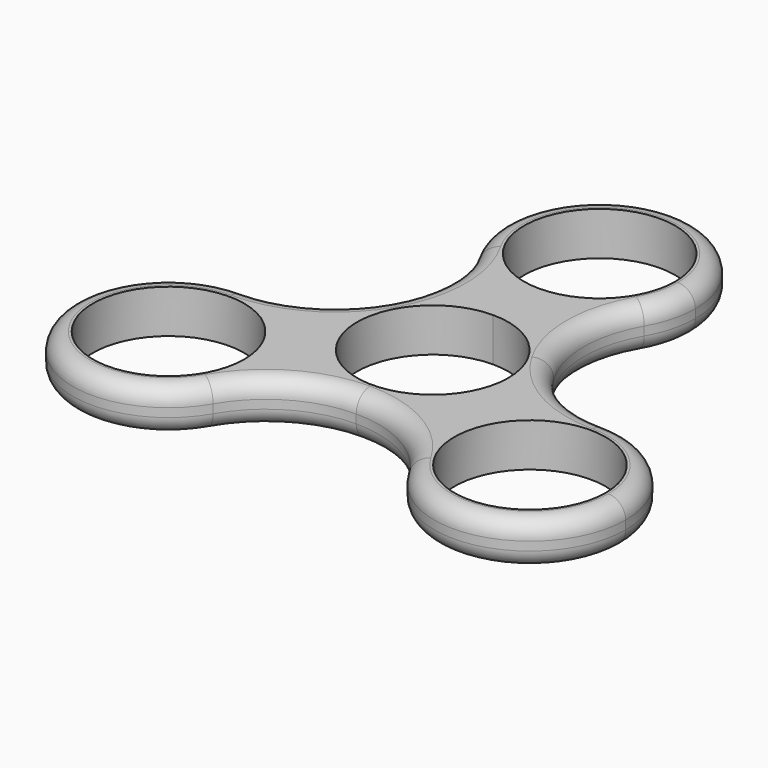
from build123d import *

# Parameters (mm, degrees)
F0_R     = 11.049
F1_DEPTH = 6.35
F2_R     = 2.54


with BuildPart() as f1:
    # F0 (on Top) → F1 (new body)
    with BuildSketch(Plane.XY):
        with BuildLine():
            ThreePointArc((0, 11.049), (7.8128228253, 7.8128228253), (11.049, 0))
            ThreePointArc((11.049, 0), (-2.8596916293, -10.6725144547), (-9.5687146864, 5.5245))
            Line((-9.5687146864, 5.5245), (-12.0983748909, 6.985))
            ThreePointArc((-12.098374853, 6.9850000656), (-12.0983749098, -6.9849999672), (0, -13.97))
            ThreePointArc((0, -13.97), (9.8782817332, -9.8782817332), (13.97, 0))
            ThreePointArc((13.97, 0), (13.4939838208, 3.6157019573), (12.0983749973, 6.9849998157))
            ThreePointArc((12.0983749973, 6.9849998157), (6.9850000922, 12.0983748377), (0, 13.97))
            Line((0, 13.97), (0, 11.049))
        make_face()
        with BuildLine():
            ThreePointArc((-9.5687146864, 5.5245), (-5.5245, 9.5687146864), (0, 11.049))
            Line((0, 11.049), (0, 13.97))
            ThreePointArc((0, 13.97), (-6.9849999672, 12.0983749098), (-12.098374853, 6.9850000656))
            Line((-12.0983748909, 6.985), (-9.5687146864, 5.5245))
        make_face()
        with BuildLine():
            Line((0, 16.51), (0, 13.97))
            ThreePointArc((0, 13.97), (6.9850000922, 12.0983748377), (12.0983749973, 6.9849998157))
            ThreePointArc((12.0983749973, 6.9849998157), (9.8864543073, 15.2399998936), (12.0983748909, 23.495))
            ThreePointArc((12.0983748909, 23.495), (6.985, 18.3816251091), (0, 16.51))
        make_face()
        with BuildLine():
            ThreePointArc((-12.098374853, 6.9850000656), (-6.9849999672, 12.0983749098), (0, 13.97))
            Line((0, 13.97), (0, 16.51))
            ThreePointArc((0, 16.51), (-6.985, 18.3816251091), (-12.0983748909, 23.495))
            ThreePointArc((-12.0983748909, 23.495), (-9.8864543073, 15.2400000379), (-12.098374853, 6.9850000656))
        make_face()
        with BuildLine():
            ThreePointArc((0, -13.97), (-12.0983749098, -6.9849999672), (-12.098374853, 6.9850000656))
            ThreePointArc((-12.098374853, 6.9850000656), (-18.1414542745, 0.9419206025), (-26.3964543073, -1.27))
            ThreePointArc((-26.3964543073, -1.27), (-16.5181725742, -5.3617182668), (-12.4264543073, -15.24))
            ThreePointArc((-12.4264543073, -15.24), (-12.9024705141, -18.8557020601), (-14.2980794165, -22.225))
            ThreePointArc((-14.2980794165, -22.225), (-8.255, -16.1819205835), (0, -13.97))
        make_face()
        with BuildLine():
            ThreePointArc((26.3964543073, -1.27), (18.1414543995, 0.9419205303), (12.0983749973, 6.9849998157))
            ThreePointArc((12.0983749973, 6.9849998157), (13.4939838208, 3.6157019573), (13.97, 0))
            ThreePointArc((13.97, 0), (9.8782817332, -9.8782817332), (0, -13.97))
            ThreePointArc((0, -13.97), (8.255, -16.1819205835), (14.2980794165, -22.225))
            ThreePointArc((14.2980794165, -22.225), (14.2980794165, -8.255), (26.3964543073, -1.27))
        make_face()
        with BuildLine():
            ThreePointArc((-12.0983748909, 23.495), (-6.985, 18.3816251091), (0, 16.51))
            ThreePointArc((0, 16.51), (6.985, 18.3816251091), (12.0983748909, 23.495))
            ThreePointArc((12.0983748909, 23.495), (13.4939837933, 26.8642979399), (13.97, 30.48))
            ThreePointArc((13.97, 30.48), (-3.6157020601, 43.9739837933), (-12.0983748909, 23.495))
        make_face()
        with BuildLine():
            ThreePointArc((11.049, 30.48), (7.8128228253, 22.6671771747), (0, 19.431))
            ThreePointArc((0, 19.431), (-7.8128228253, 38.2928228253), (11.049, 30.48))
        make_face(mode=Mode.SUBTRACT)
        with BuildLine():
            ThreePointArc((-12.4264543073, -15.24), (-16.5181725742, -5.3617182668), (-26.3964543073, -1.27))
            ThreePointArc((-26.3964543073, -1.27), (-38.4948291982, -22.225), (-14.2980794165, -22.225))
            ThreePointArc((-14.2980794165, -22.225), (-12.9024705141, -18.8557020601), (-12.4264543073, -15.24))
        make_face()
        with Locations((-26.3964543073, -15.24)):
            Circle(F0_R, mode=Mode.SUBTRACT)
        with BuildLine():
            ThreePointArc((40.3664543073, -15.24), (36.2747360405, -5.3617182668), (26.3964543073, -1.27))
            ThreePointArc((26.3964543073, -1.27), (14.2980794165, -8.255), (14.2980794165, -22.225))
            ThreePointArc((14.2980794165, -22.225), (30.0121563674, -28.7339837933), (40.3664543073, -15.24))
        make_face()
        with Locations((26.3964543073, -15.24)):
            Circle(F0_R, mode=Mode.SUBTRACT)
        with BuildLine():
            ThreePointArc((0, 11.049), (7.8128228253, 7.8128228253), (11.049, 0))
            ThreePointArc((11.049, 0), (-2.8596916293, -10.6725144547), (-9.5687146864, 5.5245))
            Line((-9.5687146864, 5.5245), (-12.0983748909, 6.985))
            ThreePointArc((-12.098374853, 6.9850000656), (-12.0983749098, -6.9849999672), (0, -13.97))
            ThreePointArc((0, -13.97), (9.8782817332, -9.8782817332), (13.97, 0))
            ThreePointArc((13.97, 0), (13.4939838208, 3.6157019573), (12.0983749973, 6.9849998157))
            ThreePointArc((12.0983749973, 6.9849998157), (6.9850000922, 12.0983748377), (0, 13.97))
            Line((0, 13.97), (0, 11.049))
        make_face()
    extrude(amount=F1_DEPTH)

    # F2
    f2_edges = [f1.edges().sort_by_distance(p)[0] for p in [
        (26.396454, -1.27, 3.175),
        (12.098375, 23.495, 3.175),
        (12.098375, 6.985, 0),
        (12.098375, 6.985, 6.35),
    ]]
    fillet(f2_edges, radius=F2_R)


solid = f1.part
